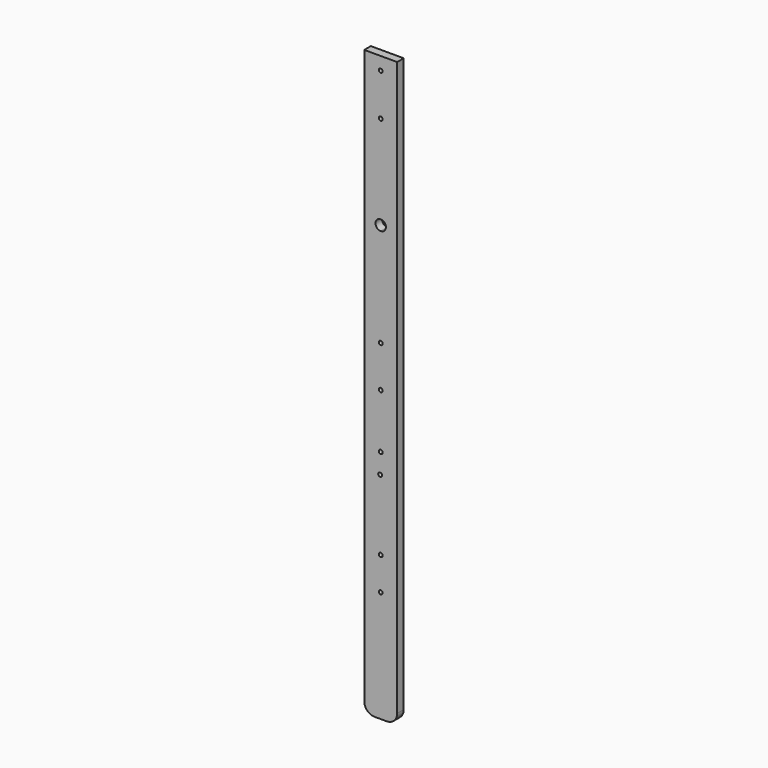
from build123d import *

# Parameters (mm, degrees)
F0_R     = 1.5
F1_DEPTH = 6.35


with BuildPart() as f1:
    # F0 (on Front) → F1 (new body)
    with BuildSketch(Plane.XZ):
        with BuildLine():
            ThreePointArc((-12.7, -188.950539), (-10.352556, -194.61777), (-4.685325, -196.965214))
            Line((-4.685325, -196.965214), (4.685325, -196.965214))
            ThreePointArc((4.685325, -196.965214), (10.352556, -194.61777), (12.7, -188.950539))
            Line((12.7, -188.950539), (12.7, 251.207151))
            Line((12.7, 251.207151), (12.7, 253.514361))
            Line((12.7, 253.514361), (7.49769, 253.514361))
            Line((7.49769, 253.514361), (6.539542, 253.514361))
            Line((6.539542, 253.514361), (0, 253.514361))
            Line((0, 253.514361), (-7.49769, 253.514361))
            Line((-7.49769, 253.514361), (-12.7, 253.514361))
            Line((-12.7, 253.514361), (-12.7, 249.866838))
            Line((-12.7, 249.866838), (-12.7, -188.950539))
        make_face()
        with Locations((-0.438477, -31.045226)):
            Circle(F0_R, mode=Mode.SUBTRACT)
        with Locations((0, -110.852026)):
            Circle(F0_R, mode=Mode.SUBTRACT)
        with Locations((0, -85.452026)):
            Circle(F0_R, mode=Mode.SUBTRACT)
        with Locations((0, -15.452026)):
            Circle(F0_R, mode=Mode.SUBTRACT)
        with Locations((0, 26.554786)):
            Circle(F0_R, mode=Mode.SUBTRACT)
        with BuildLine():
            ThreePointArc((1.5, 58.558786), (-1.06066, 57.498125), (0, 60.058786))
            ThreePointArc((0, 60.058786), (1.06066, 59.619446), (1.5, 58.558786))
        make_face(mode=Mode.SUBTRACT)
        with BuildLine():
            ThreePointArc((0, 134.552742), (-4.008855, 138.561597), (0, 142.570453))
            ThreePointArc((0, 142.570453), (2.834689, 141.396286), (4.008855, 138.561597))
            ThreePointArc((4.008855, 138.561597), (2.834689, 135.726909), (0, 134.552742))
        make_face(mode=Mode.SUBTRACT)
        with BuildLine():
            ThreePointArc((0, 209.458786), (-1.5, 210.958786), (0, 212.458786))
            ThreePointArc((0, 212.458786), (1.06066, 212.019446), (1.5, 210.958786))
            ThreePointArc((1.5, 210.958786), (1.06066, 209.898125), (0, 209.458786))
        make_face(mode=Mode.SUBTRACT)
        with BuildLine():
            ThreePointArc((0, 242.019919), (-1.5, 243.519919), (0, 245.019919))
            ThreePointArc((0, 245.019919), (1.06066, 244.580579), (1.5, 243.519919))
            ThreePointArc((1.5, 243.519919), (1.06066, 242.459259), (0, 242.019919))
        make_face(mode=Mode.SUBTRACT)
    extrude(amount=F1_DEPTH)


solid = f1.part
